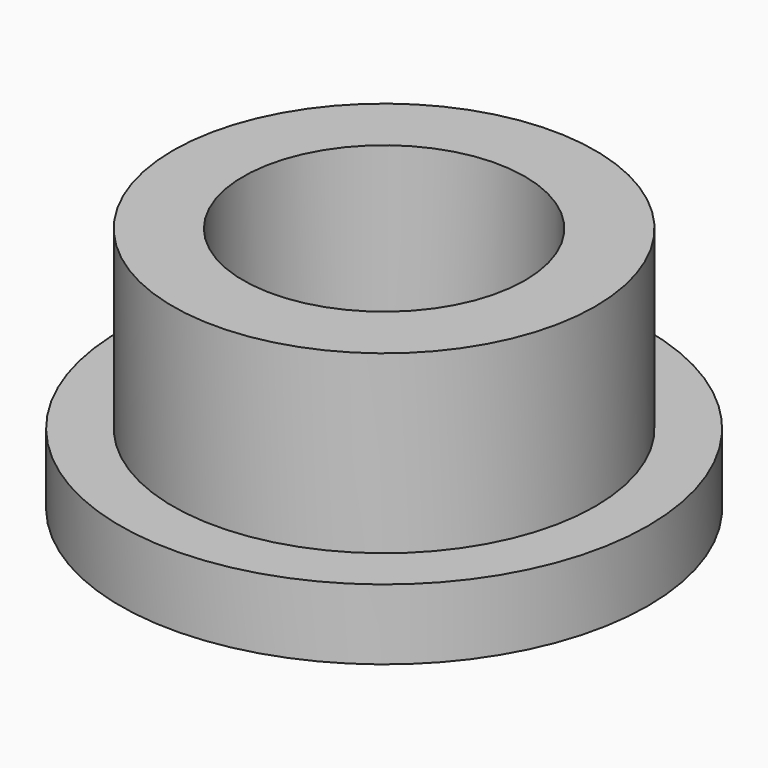
from build123d import *

# Parameters (mm, degrees)
F0_R     = 7.5
F1_DEPTH = 2
F2_R     = 6
F3_DEPTH = 5
F4_T     = -2


with BuildPart() as f1:
    # F0 (on Top) → F1 (new body)
    with BuildSketch(Plane.XY):
        Circle(F0_R)
    extrude(amount=F1_DEPTH)

    # F2 (on face) → F3 (join)
    with BuildSketch(Plane.XY.offset(2)):
        Circle(F2_R)
    extrude(amount=F3_DEPTH)

    # F4
    f4_openings = [f1.faces().sort_by_distance(p)[0] for p in [
        (0, 0, 7),
    ]]
    offset(amount=F4_T, openings=f4_openings, kind=Kind.INTERSECTION)


solid = f1.part
